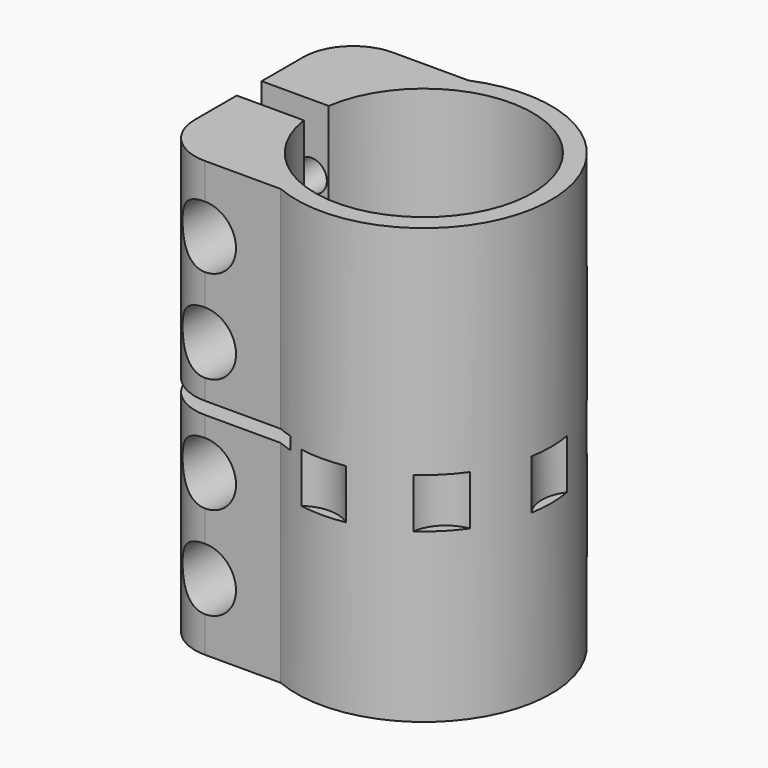
from build123d import *

# Parameters (mm, degrees)
F1_DEPTH       = 35
F3_D           = 5
F3_START       = 1.7550021
F3_CBORE_D     = 10
F3_CBORE_DEPTH = 8
F4_W           = 22.4
F4_H           = 2
F5_DEPTH       = 25
F6_R           = 6
F7_DEPTH       = 8


with BuildPart() as f1:
    # F0 (on Top) → F1 (new body, symmetric)
    with BuildSketch(Plane.XY):
        with BuildLine():
            ThreePointArc((-17.3192642082, 2.5086026559), (17.5, 0), (-17.3192642082, -2.5086026559))
            Line((-17.3192642082, -2.5086026559), (-28.1192642082, -2.5086026559))
            Line((-28.1192642082, -2.5086026559), (-28.1192642082, -10.9086026559))
            ThreePointArc((-28.1192642082, -10.9086026559), (-25.7761184577, -16.5654569054), (-20.1192642082, -18.9086026559))
            Line((-20.1192642082, -18.9086026559), (-7.9192642082, -18.9086026559))
            ThreePointArc((-7.9192642082, -18.9086026559), (20.5, 0), (-7.9192642082, 18.9086026559))
            Line((-7.9192642082, 18.9086026559), (-20.1192642082, 18.9086026559))
            ThreePointArc((-20.1192642082, 18.9086026559), (-25.7761184577, 16.5654569054), (-28.1192642082, 10.9086026559))
            Line((-28.1192642082, 10.9086026559), (-28.1192642082, 2.5086026559))
            Line((-28.1192642082, 2.5086026559), (-17.3192642082, 2.5086026559))
        make_face()
    extrude(amount=F1_DEPTH, both=True)

    # F3 (through all)
    # its depths count from where the whole tool has entered the part; down to there all is cleared
    with Locations(Plane.XZ.offset(18.9086026559).offset(-F3_START)):
        with Locations((-20.1192642082, -24.25), (-20.1192642082, -9.25), (-20.1192642082, 9.25), (-20.1192642082, 24.25)):
            CounterBoreHole(F3_D / 2, F3_CBORE_D / 2, F3_CBORE_DEPTH)

    # F4 (on Front) → F5 (cut, symmetric)
    with BuildSketch(Plane.XZ):
        with Locations((-16.9192642082, 0)):
            Rectangle(F4_W, F4_H)
    extrude(amount=F5_DEPTH, both=True, mode=Mode.SUBTRACT)

    # F6 (on Top) → F7 (cut)
    with BuildSketch(Plane.XY):
        with Locations((0, -25)):
            Circle(F6_R)
        with Locations((17.6776695297, -17.6776695297)):
            Circle(F6_R)
        with Locations((25, 0)):
            Circle(F6_R)
        with Locations((17.6776695297, 17.6776695297)):
            Circle(F6_R)
        with Locations((0, 25)):
            Circle(F6_R)
    extrude(amount=-F7_DEPTH, mode=Mode.SUBTRACT)


solid = f1.part
